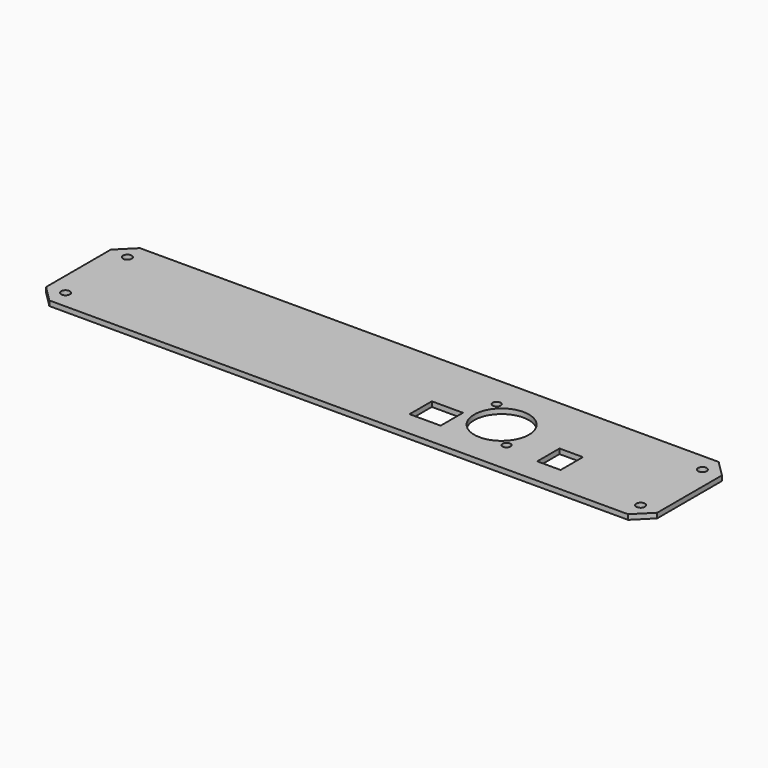
from build123d import *

# Parameters (mm, degrees)
F0_R     = 1.75
F0_W     = 12.5
F0_H     = 11.2
F0_R_2   = 1.6
F0_R_3   = 11
F0_W_2   = 9.4
F1_DEPTH = 2


with BuildPart() as f1:
    # F0 (on Top) → F1 (new body)
    with BuildSketch(Plane.XY):
        Polygon((124.39022, 20.678444), (-108.10978, 20.678444), (-114.60978, 14.178444), (-114.60978, -18.321556), (-108.10978, -24.821556), (124.39022, -24.821556), (130.89022, -18.321556), (130.89022, 14.178444), align=None)
        with Locations((-107.35978, -17.571556)):
            Circle(F0_R, mode=Mode.SUBTRACT)
        with Locations((-107.35978, 13.428444)):
            Circle(F0_R, mode=Mode.SUBTRACT)
        with Locations((34.64022, -8.971556)):
            Rectangle(F0_W, F0_H, mode=Mode.SUBTRACT)
        with Locations((65.29022, -11.971556)):
            Circle(F0_R_2, mode=Mode.SUBTRACT)
        with Locations((45.49022, 7.828444)):
            Circle(F0_R_2, mode=Mode.SUBTRACT)
        with Locations((55.39022, -2.071556)):
            Circle(F0_R_3, mode=Mode.SUBTRACT)
        with Locations((84.39022, -8.971556)):
            Rectangle(F0_W_2, F0_H, mode=Mode.SUBTRACT)
        with Locations((123.64022, -17.571556)):
            Circle(F0_R, mode=Mode.SUBTRACT)
        with Locations((123.64022, 13.428444)):
            Circle(F0_R, mode=Mode.SUBTRACT)
    extrude(amount=F1_DEPTH)


solid = f1.part
